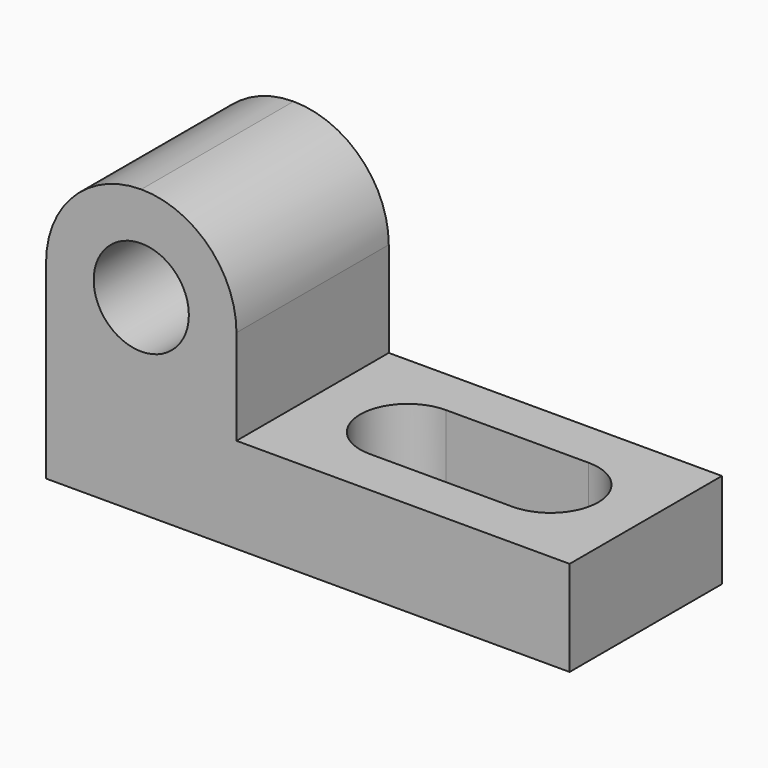
from build123d import *

# Parameters (mm, degrees)
F0_W     = 69.85
F0_H     = 38.1
F1_DEPTH = 25.4
F2_W     = 44.45
F2_H     = 25.4
F3_DEPTH = 25.4
F4_R     = 6.35
F5_DEPTH = 25.4
F7_DEPTH = 25.4
F9_DEPTH = 25.4


with BuildPart() as f1:
    # F0 (on Front) → F1 (new body)
    with BuildSketch(Plane.XZ):
        with Locations((34.925, 19.05)):
            Rectangle(F0_W, F0_H)
    extrude(amount=F1_DEPTH)

    # F2 (on face) → F3 (cut)
    with BuildSketch(Plane.XZ.offset(25.4)):
        with Locations((47.625, 25.4)):
            Rectangle(F2_W, F2_H)
    extrude(amount=-F3_DEPTH, mode=Mode.SUBTRACT)

    # F4 (on face) → F5 (cut)
    with BuildSketch(Plane.XZ.offset(25.4)):
        with Locations((12.7, 25.4)):
            Circle(F4_R)
    extrude(amount=-F5_DEPTH, mode=Mode.SUBTRACT)

    # F6 (on face) → F7 (cut)
    with BuildSketch(Plane.XZ.offset(25.4)):
        with BuildLine():
            ThreePointArc((0, 25.4), (3.7197438789, 34.3802561211), (12.7, 38.1))
            Line((12.7, 38.1), (0, 38.1))
            Line((0, 38.1), (0, 25.4))
        make_face()
        with BuildLine():
            ThreePointArc((12.7, 38.1), (21.6802561211, 34.3802561211), (25.4, 25.4))
            Line((25.4, 25.4), (25.4, 38.1))
            Line((25.4, 38.1), (12.7, 38.1))
        make_face()
    extrude(amount=-F7_DEPTH, mode=Mode.SUBTRACT)

    # F8 (on face) → F9 (cut)
    with BuildSketch(Plane.XY.offset(12.7)):
        with BuildLine():
            ThreePointArc((38.1, -19.05), (42.5901280605, -17.1901280605), (44.45, -12.7))
            ThreePointArc((44.45, -12.7), (42.5901280605, -8.2098719395), (38.1, -6.35))
            ThreePointArc((38.1, -6.35), (31.75, -12.7), (38.1, -19.05))
        make_face()
        with BuildLine():
            ThreePointArc((38.1, -6.35), (42.5901280605, -8.2098719395), (44.45, -12.7))
            ThreePointArc((44.45, -12.7), (42.5901280605, -17.1901280605), (38.1, -19.05))
            Line((38.1, -19.05), (57.15, -19.05))
            ThreePointArc((57.15, -19.05), (50.8, -12.7), (57.15, -6.35))
            Line((57.15, -6.35), (38.1, -6.35))
        make_face()
        with BuildLine():
            Line((57.15, -19.05), (57.15, -6.35))
            ThreePointArc((57.15, -6.35), (50.8, -12.7), (57.15, -19.05))
        make_face()
        with BuildLine():
            ThreePointArc((63.5, -12.7), (61.6401280605, -8.2098719395), (57.15, -6.35))
            Line((57.15, -6.35), (57.15, -19.05))
            ThreePointArc((57.15, -19.05), (61.6401280605, -17.1901280605), (63.5, -12.7))
        make_face()
    extrude(amount=-F9_DEPTH, mode=Mode.SUBTRACT)


solid = f1.part
